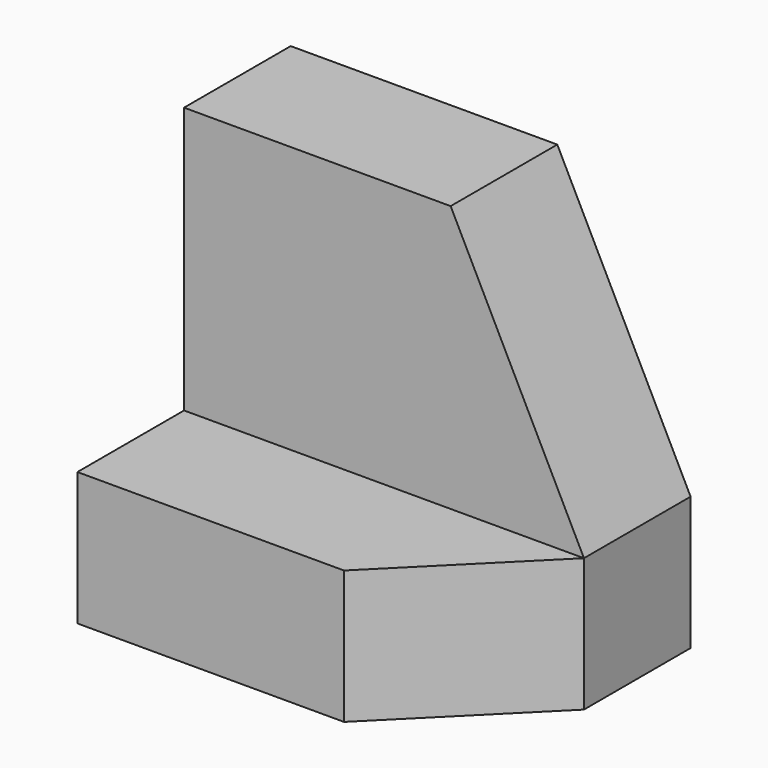
from build123d import *

# Parameters (mm, degrees)
F1_DEPTH = 38.1
F3_DEPTH = 25.4
F5_DEPTH = 25.4


with BuildPart() as f1:
    # F0 (on Right) → F1 (new body)
    with BuildSketch(Plane.YZ):
        Polygon((-12.276925, 5.197683), (-12.276925, 43.297683), (-24.976925, 43.297683), (-24.976925, 17.897683), (-37.676925, 17.897683), (-37.676925, 5.197683), align=None)
    extrude(amount=F1_DEPTH)

    # F2 (on face) → F3 (cut)
    with BuildSketch(Plane.XZ.offset(24.976925)):
        Polygon((38.1, 43.297683), (25.4, 43.297683), (38.1, 17.897683), align=None)
    extrude(amount=-F3_DEPTH, mode=Mode.SUBTRACT)

    # F4 (on face) → F5 (cut)
    with BuildSketch(Plane.XY.offset(17.897683)):
        Polygon((38.1, -37.676925), (38.1, -24.976925), (25.4, -37.676925), align=None)
    extrude(amount=-F5_DEPTH, mode=Mode.SUBTRACT)


solid = f1.part
